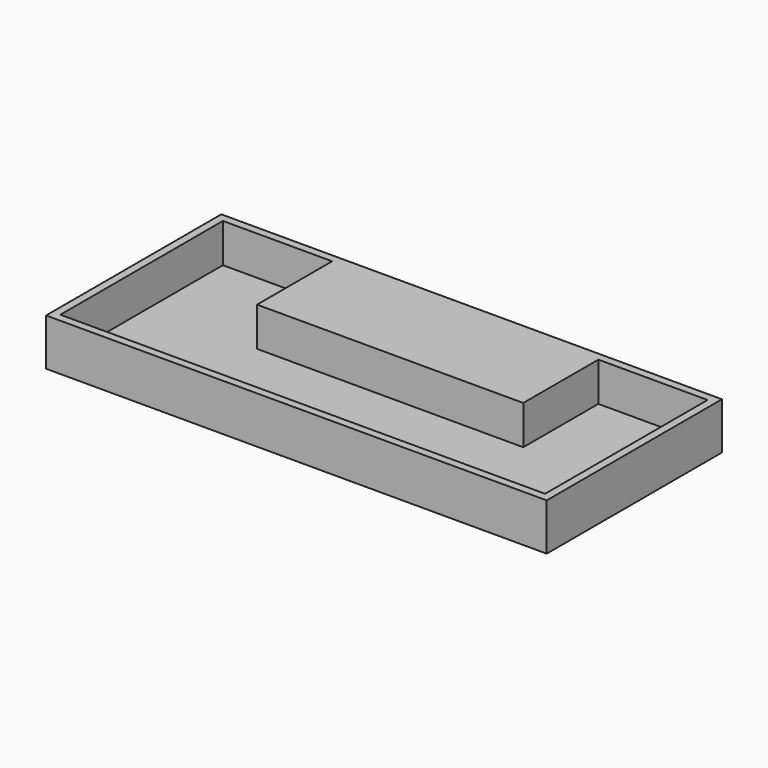
from build123d import *

# Parameters (mm, degrees)
F1_DEPTH = 150
F3_T     = -25.4
F2_W     = 800
F2_H     = 300
F4_DEPTH = 150


with BuildPart() as f1:
    # F0 (on Top) → F1 (new body)
    with BuildSketch(Plane.XY):
        Polygon((0, 700), (0, 0), (1600, 0), (1600, 700), (1200, 700), (1200, 400), (400, 400), (400, 700), align=None)
    extrude(amount=F1_DEPTH)

    # F3
    f3_openings = [f1.faces().sort_by_distance(p)[0] for p in [
        (800, 295.454545, 150),
    ]]
    offset(amount=F3_T, openings=f3_openings, kind=Kind.INTERSECTION)

    # F2 (on Top) → F4 (join)
    with BuildSketch(Plane.XY):
        with Locations((800, 550)):
            Rectangle(F2_W, F2_H)
    extrude(amount=F4_DEPTH)


solid = f1.part
